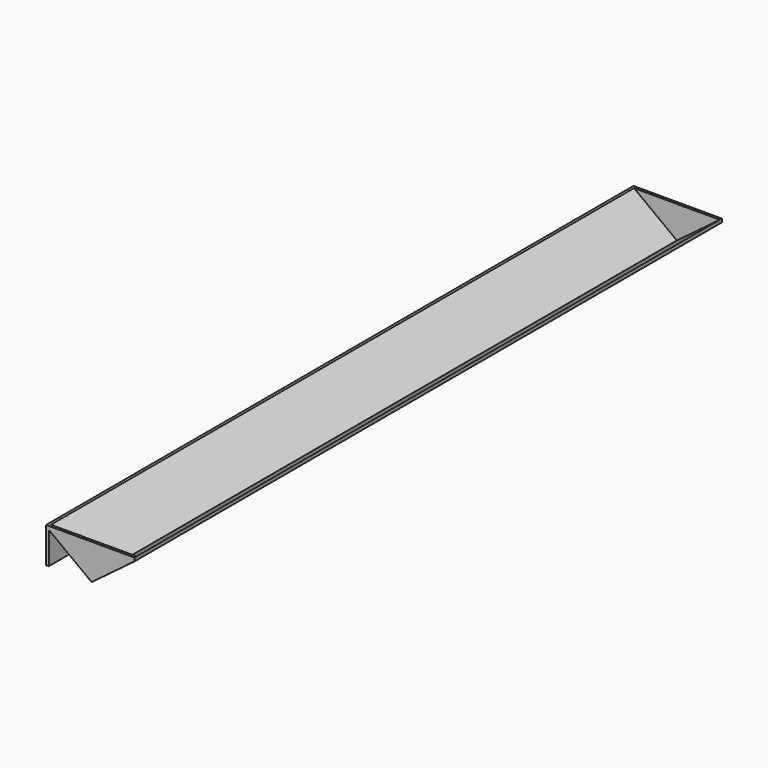
from build123d import *

# Parameters (mm, degrees)
F1_DEPTH = 869.95
F3_DEPTH = 3.175
F5_DEPTH = 3.175
F7_D     = 9.525
F7_DEPTH = 5.08


with BuildPart() as f1:
    # F0 (on Front) → F1 (new body)
    with BuildSketch(Plane.XZ):
        Polygon((0, -38.1), (-50.8, 0), (-50.8, -3.96875), (0, -42.06875), (50.8, -3.96875), (50.8, 0), align=None)
        Polygon((-50.8, -3.96875), (-50.8, 0), (-53.975, 0), (-53.975, -42.06875), (-50.8, -42.06875), align=None)
    extrude(amount=-F1_DEPTH)

    # F2 (on face) → F3 (join)
    with BuildSketch(Plane(origin=(0, 869.95, 0), x_dir=(-1, 0, 0), z_dir=(0, 1, 0))):
        Polygon((50.8, 0), (-50.8, 0), (0, -38.1), align=None)
    extrude(amount=-F3_DEPTH)

    # F4 (on face) → F5 (join)
    with BuildSketch(Plane.XZ):
        Polygon((50.8, 0), (-50.8, 0), (0, -38.1), align=None)
    extrude(amount=-F5_DEPTH)

    # F7
    with Locations(Plane(origin=(-53.975, 0, 0), x_dir=(0, -1, 0), z_dir=(-1, 0, 0))):
        with Locations((-819.15, -21.034375), (-666.75, -21.034375), (-514.35, -21.034375), (-355.6, -21.034375), (-203.2, -21.034375), (-50.8, -21.034375)):
            Hole(F7_D / 2, depth=F7_DEPTH)


solid = f1.part
